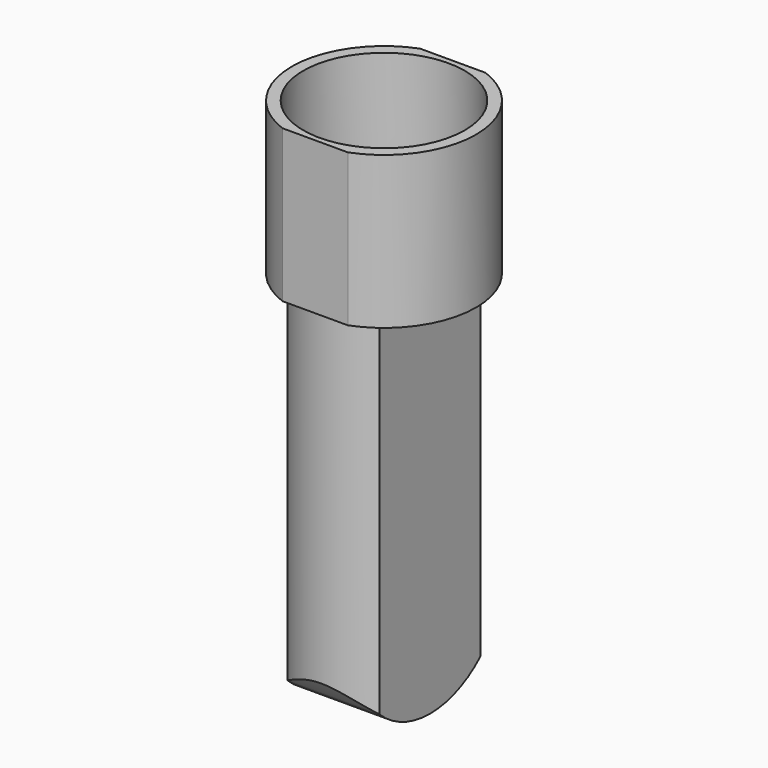
from build123d import *

# Parameters (mm, degrees)
F1_DEPTH = 38
F2_R     = 20.15
F3_DEPTH = 26
F5_DEPTH = 93
F7_DEPTH = 34.501


with BuildPart() as f1:
    # F0 (on Top) → F1 (new body)
    with BuildSketch(Plane.XY):
        with BuildLine():
            Line((-8.170067, -21.5), (8.170067, -21.5))
            ThreePointArc((8.170067, -21.5), (23, 0), (8.170067, 21.5))
            Line((8.170067, 21.5), (-8.170067, 21.5))
            ThreePointArc((-8.170067, 21.5), (-23, 0), (-8.170067, -21.5))
        make_face()
    extrude(amount=F1_DEPTH)

    # F2 (on face) → F3 (cut)
    with BuildSketch(Plane.XY.offset(38)):
        Circle(F2_R)
    extrude(amount=-F3_DEPTH, mode=Mode.SUBTRACT)

    # F4 (on face) → F5 (join)
    with BuildSketch(Plane(origin=(0, 0, 0), x_dir=(1, 0, 0), z_dir=(0, 0, -1))):
        with BuildLine():
            Line((-11.5, 15.748016), (-11.5, -15.748016))
            ThreePointArc((-11.5, -15.748016), (0, -19.5), (11.5, -15.748016))
            Line((11.5, -15.748016), (11.5, 15.748016))
            ThreePointArc((11.5, 15.748016), (0, 19.5), (-11.5, 15.748016))
        make_face()
    extrude(amount=F5_DEPTH)

    # F6 (on face) → F7 (cut, through all)
    with BuildSketch(Plane.YZ.offset(11.5)):
        with BuildLine():
            ThreePointArc((-15.748016, -86.763055), (-21.109291, -79.132241), (-23, -70))
            Line((-23, -70), (-31.357028, -101.489492))
            Line((-31.357028, -101.489492), (37.297744, -101.489492))
            Line((37.297744, -101.489492), (23, -70))
            ThreePointArc((23, -70), (21.109291, -79.132241), (15.748016, -86.763055))
            Line((15.748016, -86.763055), (15.748016, -93))
            Line((15.748016, -93), (0, -93))
            Line((0, -93), (-15.748016, -93))
            Line((-15.748016, -93), (-15.748016, -86.763055))
        make_face()
        with BuildLine():
            ThreePointArc((0, -93), (-8.469054, -91.383992), (-15.748016, -86.763055))
            Line((-15.748016, -86.763055), (-15.748016, -93))
            Line((-15.748016, -93), (0, -93))
        make_face()
        with BuildLine():
            ThreePointArc((15.748016, -86.763055), (8.469054, -91.383992), (0, -93))
            Line((0, -93), (15.748016, -93))
            Line((15.748016, -93), (15.748016, -86.763055))
        make_face()
    extrude(amount=-F7_DEPTH, mode=Mode.SUBTRACT)


solid = f1.part
